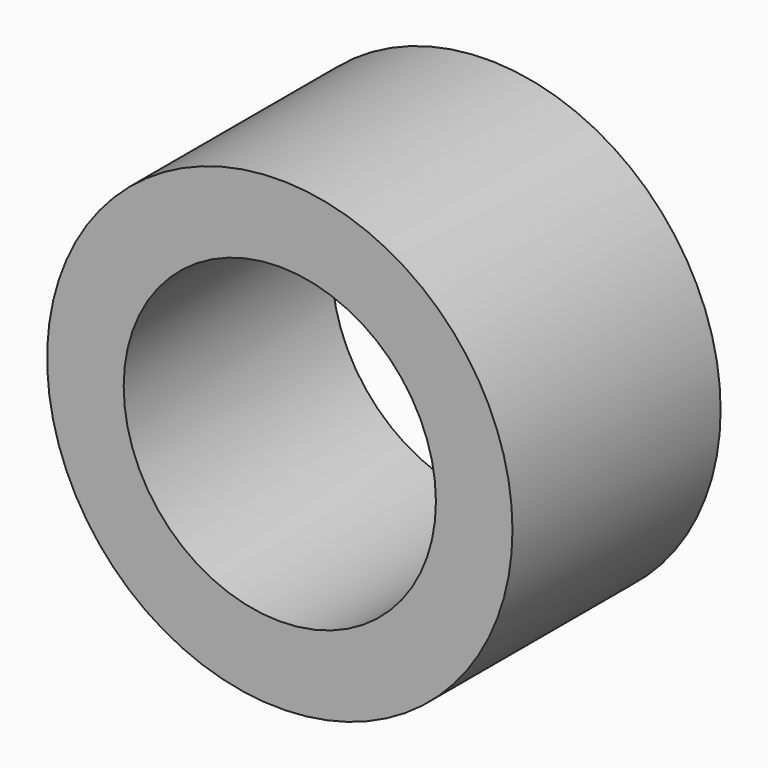
from build123d import *

# Parameters (mm, degrees)
F0_R     = 44.711007
F1_DEPTH = 25
F3_R     = 30
F4_DEPTH = 50


with BuildPart() as f1:
    # F0 (on Front) → F1 (new body)
    with BuildSketch(Plane.XZ):
        Circle(F0_R)
    extrude(amount=F1_DEPTH)

    # F2: F1 across face


with BuildPart() as f1_1:
    add(f1.part)
    add(f1.part.mirror(Plane(origin=(0, 0, 0), x_dir=(1, 0, 0), z_dir=(0, 1, 0))))

    # F3 (on face) → F4 (cut)
    with BuildSketch(Plane.XZ.offset(25)):
        Circle(F3_R)
    extrude(amount=-F4_DEPTH, mode=Mode.SUBTRACT)


solid = f1_1.part
